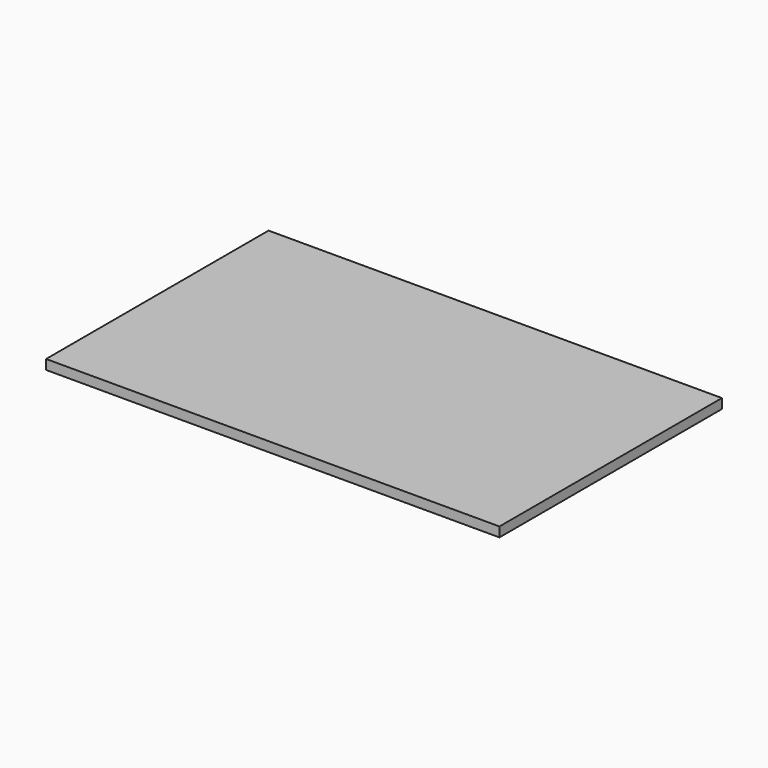
from build123d import *

# Parameters (mm, degrees)
SKETCH_W  = 75
SKETCH_H  = 46
PAD_DEPTH = 1.6


with BuildPart() as part:
    # Sketch → Pad (new body)
    with BuildSketch(Plane.XY):
        Rectangle(SKETCH_W, SKETCH_H)
    extrude(amount=PAD_DEPTH)


solid = part.part
